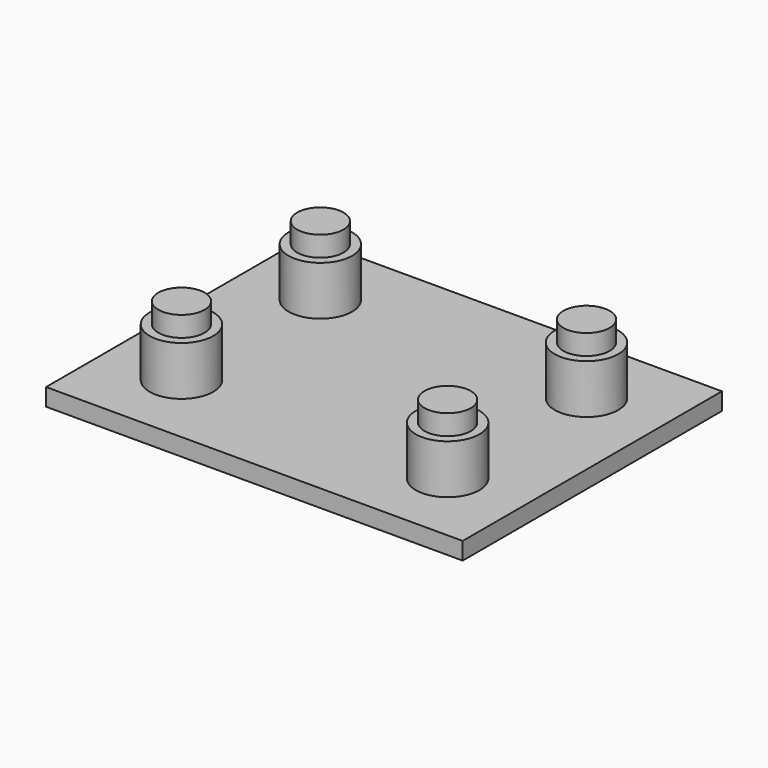
from build123d import *

# Parameters (mm, degrees)
F0_W     = 72
F0_H     = 56
F0_R     = 5.5
F1_DEPTH = 3
F0_R_2   = 4
F2_DEPTH = 11.5
F3_DEPTH = 15


with BuildPart() as f1:
    # F0 (on Top) → F1 (new body)
    with BuildSketch(Plane.XY):
        with Locations((36, 28)):
            Rectangle(F0_W, F0_H)
        with Locations((13, 13)):
            Circle(F0_R, mode=Mode.SUBTRACT)
        with Locations((59, 13)):
            Circle(F0_R, mode=Mode.SUBTRACT)
        with Locations((13, 43)):
            Circle(F0_R, mode=Mode.SUBTRACT)
        with Locations((59, 43)):
            Circle(F0_R, mode=Mode.SUBTRACT)
    extrude(amount=F1_DEPTH)

    # F0 (on Top) → F2 (join)
    with BuildSketch(Plane.XY):
        with Locations((59, 13)):
            Circle(F0_R)
        with Locations((59, 13)):
            Circle(F0_R_2, mode=Mode.SUBTRACT)
        with Locations((59, 43)):
            Circle(F0_R)
        with Locations((59, 43)):
            Circle(F0_R_2, mode=Mode.SUBTRACT)
        with Locations((13, 43)):
            Circle(F0_R)
        with Locations((13, 43)):
            Circle(F0_R_2, mode=Mode.SUBTRACT)
        with Locations((13, 13)):
            Circle(F0_R)
        with Locations((13, 13)):
            Circle(F0_R_2, mode=Mode.SUBTRACT)
    extrude(amount=F2_DEPTH)

    # F0 (on Top) → F3 (join)
    with BuildSketch(Plane.XY):
        with Locations((13, 43)):
            Circle(F0_R_2)
        with Locations((59, 43)):
            Circle(F0_R_2)
        with Locations((59, 13)):
            Circle(F0_R_2)
        with Locations((13, 13)):
            Circle(F0_R_2)
    extrude(amount=F3_DEPTH)


solid = f1.part
